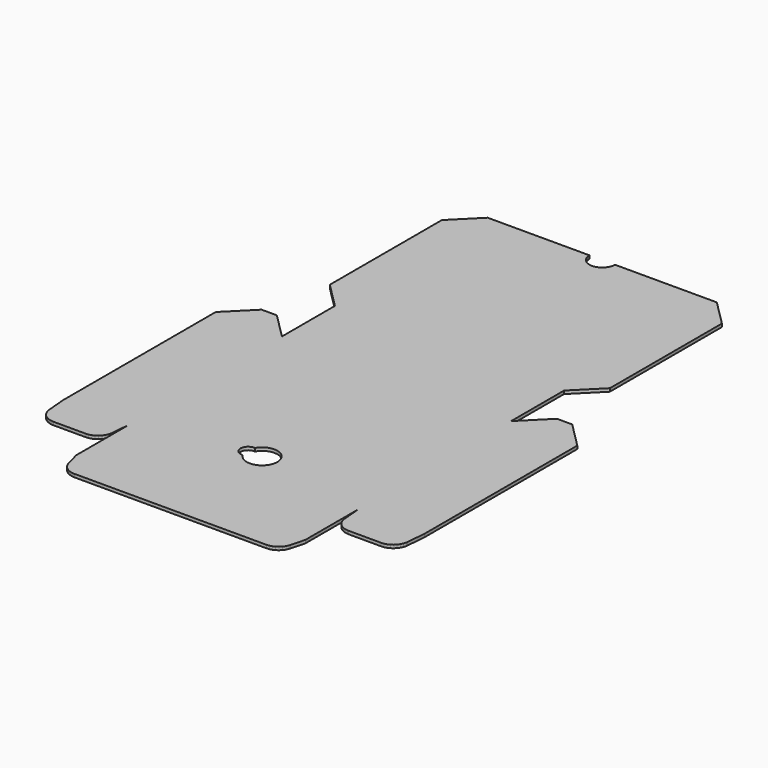
from build123d import *

# Parameters (mm, degrees)
F1_DEPTH = 1.23
F3_DEPTH = 1.231


with BuildPart() as f1:
    # F0 (on Top) → F1 (new body)
    with BuildSketch(Plane.XY):
        Polygon((-70.759976, 27.804737), (-70.759976, -47.195263), (-70.101805, -54.718197), (-69.920191, -55.748177), (-69.562483, -56.730973), (-69.039549, -57.636722), (-68.367277, -58.437904), (-67.566095, -59.110175), (-66.660346, -59.63311), (-65.677551, -59.990818), (-64.647571, -60.172431), (-64.124636, -60.195263), (-51.395316, -60.195263), (-50.353427, -60.10411), (-49.343195, -59.833419), (-48.395316, -59.391415), (-47.53859, -58.79153), (-46.799049, -58.051989), (-46.199163, -57.195263), (-45.75716, -56.247384), (-45.486469, -55.237152), (-45.418147, -54.718197), (-44.759976, -47.195263), (-44.759976, -73.195263), (-43.272077, -78.748177), (-42.914369, -79.730973), (-42.391434, -80.636722), (-41.719163, -81.437904), (-40.917981, -82.110175), (-40.012232, -82.63311), (-39.029436, -82.990818), (-37.999457, -83.172431), (-37.476522, -83.195263), (37.95657, -83.195263), (38.998459, -83.10411), (40.008691, -82.833419), (40.95657, -82.391415), (41.813296, -81.79153), (42.552837, -81.051989), (43.152723, -80.195263), (43.594726, -79.247384), (43.752125, -78.748177), (45.240024, -73.195263), (45.240024, -47.195263), (45.898195, -54.718197), (46.079809, -55.748177), (46.437517, -56.730973), (46.960451, -57.636722), (47.632723, -58.437904), (48.433905, -59.110175), (49.339654, -59.63311), (50.322449, -59.990818), (51.352429, -60.172431), (51.875364, -60.195263), (64.604684, -60.195263), (65.646573, -60.10411), (66.656805, -59.833419), (67.604684, -59.391415), (68.46141, -58.79153), (69.200951, -58.051989), (69.800837, -57.195263), (70.24284, -56.247384), (70.513531, -55.237152), (70.581853, -54.718197), (71.240024, -47.195263), (71.240024, 27.804737), (61.240024, 37.804737), (55.240024, 37.804737), (45.240024, 27.804737), (45.240024, 53.804737), (55.240024, 63.804737), (55.240024, 118.804737), (45.240024, 128.804737), (5.240024, 128.804737), (5.164063, 127.936496), (4.938487, 127.094636), (4.570151, 126.304737), (4.070246, 125.590799), (3.453962, 124.974515), (2.740024, 124.47461), (1.950125, 124.106274), (1.108265, 123.880698), (0.240024, 123.804737), (-0.628217, 123.880698), (-1.470077, 124.106274), (-2.259976, 124.47461), (-2.973914, 124.974515), (-3.590198, 125.590799), (-4.090103, 126.304737), (-4.458439, 127.094636), (-4.684015, 127.936496), (-4.759976, 128.804737), (-44.759976, 128.804737), (-54.759976, 118.804737), (-54.759976, 63.804737), (-44.759976, 53.804737), (-44.759976, 27.804737), (-54.759976, 37.804737), (-60.759976, 37.804737), align=None)
    extrude(amount=F1_DEPTH)

    # F2 (on face) → F3 (cut, through all)
    with BuildSketch(Plane.XY.offset(1.23)):
        with BuildLine():
            ThreePointArc((-4.964521, -35.209847), (-8.259976, -38.195263), (-4.964521, -41.180679))
            ThreePointArc((-4.964521, -41.180679), (6.240024, -38.195263), (-4.964521, -35.209847))
        make_face()
    extrude(amount=-F3_DEPTH, mode=Mode.SUBTRACT)


solid = f1.part
